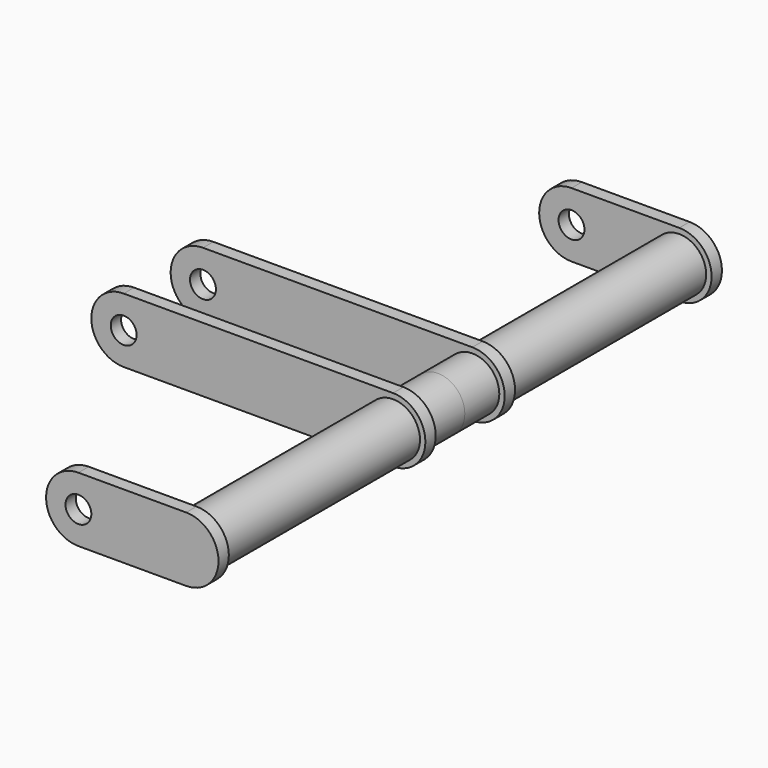
from build123d import *

# Parameters (mm, degrees)
F1_R     = 6
F1_R_2   = 12.5
F2_DEPTH = 6
F3_DEPTH = 140
F5_R     = 6
F6_DEPTH = 6


with BuildPart() as f2:
    # F1 (on offset) → F2 (new body)
    with BuildSketch(Plane.XZ.offset(140)):
        with BuildLine():
            Line((-50, -15), (0, -15))
            ThreePointArc((0, -15), (15, 0), (0, 15))
            Line((0, 15), (-50, 15))
            ThreePointArc((-50, 15), (-65, 0), (-50, -15))
        make_face()
        with Locations((-50, 0)):
            Circle(F1_R, mode=Mode.SUBTRACT)
        Circle(F1_R_2, mode=Mode.SUBTRACT)
        Circle(F1_R_2)
        Circle(F1_R, mode=Mode.SUBTRACT)
        Circle(F1_R)
    extrude(amount=F2_DEPTH)

    # F1 (on offset) → F3 (join, through all)
    with BuildSketch(Plane.XZ.offset(140)):
        Circle(F1_R_2)
        Circle(F1_R, mode=Mode.SUBTRACT)
        Circle(F1_R)
    extrude(amount=-F3_DEPTH)

    # F5 (on offset) → F6 (join)
    with BuildSketch(Plane.XZ.offset(20)):
        with BuildLine():
            Line((-125, -15), (0, -15))
            ThreePointArc((0, -15), (15, 0), (0, 15))
            Line((0, 15), (-125, 15))
            ThreePointArc((-125, 15), (-140, 0), (-125, -15))
        make_face()
        with Locations((-125, 0)):
            Circle(F5_R, mode=Mode.SUBTRACT)
    extrude(amount=F6_DEPTH)

    # F7: F2 across face


with BuildPart() as f2_1:
    add(f2.part)
    add(f2.part.mirror(Plane(origin=(0, 0, 0), x_dir=(1, 0, 0), z_dir=(0, 1, 0))))


solid = f2_1.part
